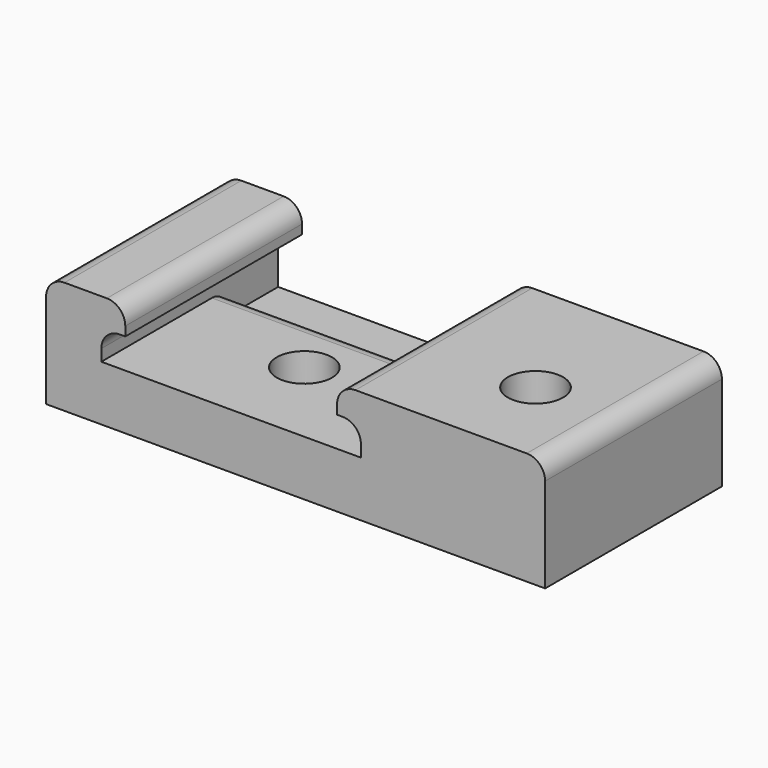
from build123d import *

# Parameters (mm, degrees)
F1_DEPTH = 12
F2_W     = 14.1
F2_H     = 3.5
F3_DEPTH = 1.3
F4_R     = 1.5
F5_DEPTH = 3
F6_R     = 1.5
F7_DEPTH = 6.13
F8_R     = 1
F9_R     = 1


with BuildPart() as f1:
    # F0 (on Front) → F1 (new body)
    with BuildSketch(Plane.XZ):
        Polygon((-27.1, 0), (0, 0), (0, 6.13), (-11.3, 6.13), (-11.3, 4.63), (-10, 4.63), (-10, 3), (-24.1, 3), (-24.1, 4.63), (-22.8, 4.63), (-22.8, 6.13), (-27.1, 6.13), align=None)
    extrude(amount=F1_DEPTH)

    # F2 (on face) → F3 (cut)
    with BuildSketch(Plane.XY.offset(3)):
        with Locations((-17.05, -1.75)):
            Rectangle(F2_W, F2_H)
    extrude(amount=-F3_DEPTH, mode=Mode.SUBTRACT)

    # F4 (on face) → F5 (cut, through all)
    with BuildSketch(Plane.XY.offset(3)):
        with Locations((-17.05, -7.03)):
            Circle(F4_R)
    extrude(amount=-F5_DEPTH, mode=Mode.SUBTRACT)

    # F6 (on face) → F7 (cut, through all)
    with BuildSketch(Plane.XY.offset(6.13)):
        with Locations((-4.5, -7.03)):
            Circle(F6_R)
    extrude(amount=-F7_DEPTH, mode=Mode.SUBTRACT)

    # F8
    f8_edges = [f1.edges().sort_by_distance(p)[0] for p in [
        (-22.8, -6, 6.13),
        (-11.3, -6, 6.13),
        (-27.1, -6, 6.13),
        (0, -6, 6.13),
        (-17.05, -3.5, 3),
    ]]
    fillet(f8_edges, radius=F8_R)

    # F9
    f9_edges = [f1.edges().sort_by_distance(p)[0] for p in [
        (-24.1, -6, 4.63),
        (-10, -6, 4.63),
    ]]
    fillet(f9_edges, radius=F9_R)


solid = f1.part
